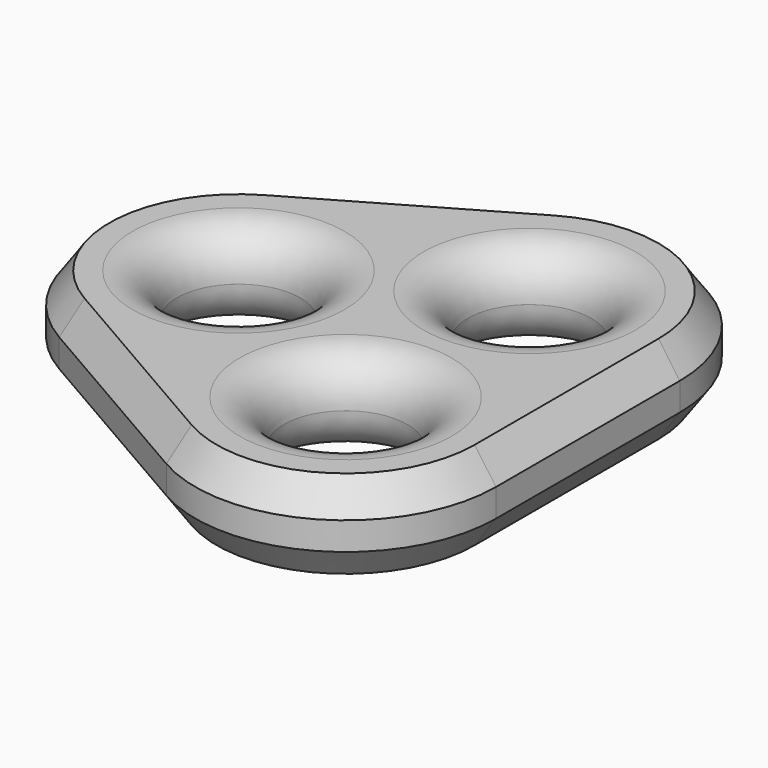
from build123d import *

# Parameters (mm, degrees)
SKETCH006_R  = 3.5
PAD001_DEPTH = 2.5
FILLET_R     = 2.498


with BuildPart() as part:
    # Sketch006 → Pad001 (new body, symmetric)
    with BuildSketch(Plane.XY):
        with BuildLine():
            Line((8.6, 0), (8.6, 6.5))
            ThreePointArc((8.6, 6.5), (4.3, 13.947818), (-4.3, 13.947818))
            Line((-4.3, 13.947818), (-15.55833, 7.447818))
            ThreePointArc((-15.55833, 7.447818), (-19.85833, 0), (-15.55833, -7.447818))
            Line((-15.55833, -7.447818), (-4.299965, -13.947839))
            ThreePointArc((-4.299965, -13.947839), (4.300019, -13.947807), (8.6, -6.499997))
            Line((8.6, -6.499997), (8.6, 0))
        make_face()
        with Locations((-11.25833, 0)):
            Circle(SKETCH006_R, mode=Mode.SUBTRACT)
        with Locations((0, 6.5)):
            Circle(SKETCH006_R, mode=Mode.SUBTRACT)
        with Locations((0, -6.5)):
            Circle(SKETCH006_R, mode=Mode.SUBTRACT)
    extrude(amount=PAD001_DEPTH, both=True)

    # SubtractivePipe: sweep along a path in Sketch007
    with BuildLine(Plane.XY) as subtractivepipe_path:
        Line((8.75, 0), (8.75, 6.5))
        ThreePointArc((8.75, 6.5), (4.375, 14.077722), (-4.375, 14.077722))
        Line((-4.375, 14.077722), (-15.63333, 7.577722))
        ThreePointArc((-15.63333, 7.577722), (-20.00833, 0), (-15.63333, -7.577722))
        Line((-15.63333, -7.577722), (-4.375, -14.077722))
        ThreePointArc((-4.375, -14.077722), (4.375, -14.077722), (8.75, -6.5))
        Line((8.75, -6.5), (8.75, 0))
    # Sketch008 → SubtractivePipe (sweep, cut)
    with BuildSketch(Plane.XZ):
        Polygon((7.231397, 2.6), (8.5, 0.788247), (8.5, -0.788247), (7.231397, -2.6), (9, -2.6), (9, 2.6), align=None)
    sweep(path=subtractivepipe_path.line, mode=Mode.SUBTRACT)

    # Fillet
    fillet_edges = [part.edges().sort_by_distance(p)[0] for p in [
        (-3.5, -6.5, -2.5),
        (-3.5, 6.5, -2.5),
        (-14.75833, 0, -2.5),
        (-3.5, -6.5, 2.5),
        (-3.5, 6.5, 2.5),
        (-14.75833, 0, 2.5),
    ]]
    fillet(fillet_edges, radius=FILLET_R)


with BuildPart() as part_1:
    # Body003 placement: moved
    add(part.part.moved(Location((24, 0, 0))))


solid = part_1.part
